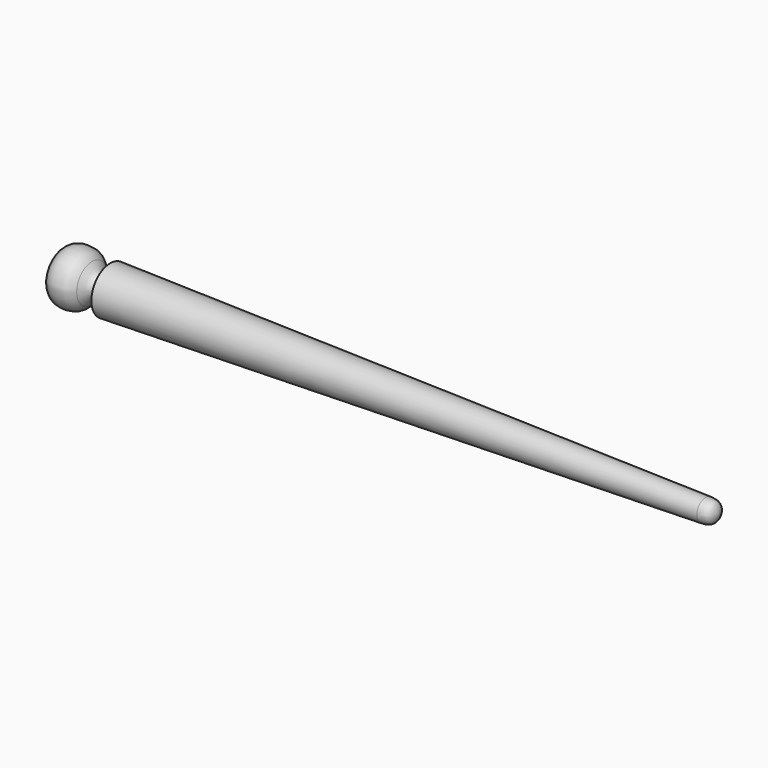
from build123d import *


with BuildPart() as f1:
    # F0 (on Top) → F1 (revolve)
    with BuildSketch(Plane.XY):
        with BuildLine():
            Line((46.4299432933, 17.4472313374), (-46.6545335948, 17.4472313374))
            add(Edge.make_bspline(
                [(-46.6545335948, 17.4472313374), (-46.6545335948, 13.9701906592), (-44.1549346274, 13.4301458272), (-42.5539724529, 13.8457519934), (-41.8964773417, 14.7631997243)],
                knots=[0, 0, 0, 0, 0.5788116561, 1, 1, 1, 1], degree=3))
            add(Edge.make_bspline(
                [(-41.8964773417, 14.7631997243), (-41.2535189619, 15.8153157892), (-40.5185959248, 16.0699452092), (-39.3201224506, 15.85877873), (-39.3201224506, 14.1309248284)],
                knots=[0, 0, 0, 0, 0.4845541868, 1, 1, 1, 1], degree=3))
            Line((-39.3201224506, 14.1309248284), (44.6267612278, 15.8927608281))
            add(Edge.make_bspline(
                [(46.4299432933, 17.4472313374), (46.3534014447, 16.8365464803), (46.0476823411, 16.1441906512), (45.3973053883, 15.9202793874), (44.6267612278, 15.8927608281)],
                knots=[0, 0, 0, 0, 0.4867278953, 1, 1, 1, 1], degree=3))
        make_face()
    revolve(axis=Axis((-0.1122951508, 17.4472313374, 0), (1, 0, 0)))


solid = f1.part
